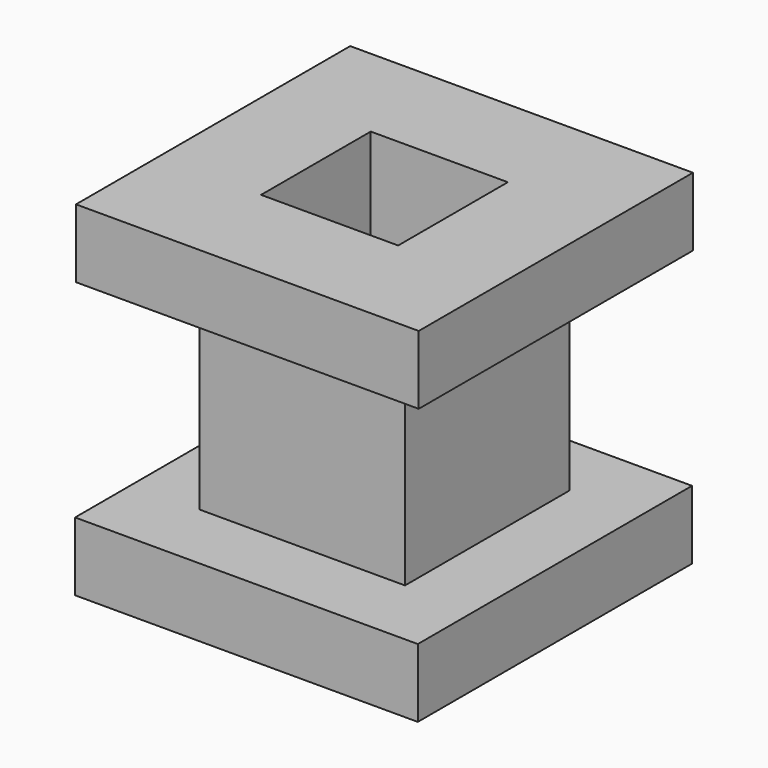
from build123d import *

# Parameters (mm, degrees)
F0_W     = 50
F0_H     = 50
F0_W_2   = 20
F0_H_2   = 20
F1_DEPTH = 10
F2_W     = 30
F2_H     = 30
F2_W_2   = 20
F2_H_2   = 20
F3_DEPTH = 30
F4_W     = 50
F4_H     = 50
F4_W_2   = 20
F4_H_2   = 20
F5_DEPTH = 10


with BuildPart() as f1:
    # F0 (on Top) → F1 (new body)
    with BuildSketch(Plane.XY):
        with Locations((-21.768434, 10.361008)):
            Rectangle(F0_W, F0_H)
        with Locations((-21.768434, 10.361008)):
            Rectangle(F0_W_2, F0_H_2, mode=Mode.SUBTRACT)
    extrude(amount=F1_DEPTH)

    # F2 (on face) → F3 (join)
    with BuildSketch(Plane(origin=(0, 0, 0), x_dir=(1, 0, 0), z_dir=(0, 0, -1))):
        with Locations((-21.768434, -10.361008)):
            Rectangle(F2_W, F2_H)
        with Locations((-21.768434, -10.361008)):
            Rectangle(F2_W_2, F2_H_2, mode=Mode.SUBTRACT)
    extrude(amount=F3_DEPTH)

    # F4 (on face) → F5 (join)
    with BuildSketch(Plane(origin=(0, 0, -30), x_dir=(1, 0, 0), z_dir=(0, 0, -1))):
        with Locations((-21.598472, -9.984265)):
            Rectangle(F4_W, F4_H)
        with Locations((-21.768434, -10.361008)):
            Rectangle(F4_W_2, F4_H_2, mode=Mode.SUBTRACT)
    extrude(amount=F5_DEPTH)


solid = f1.part
